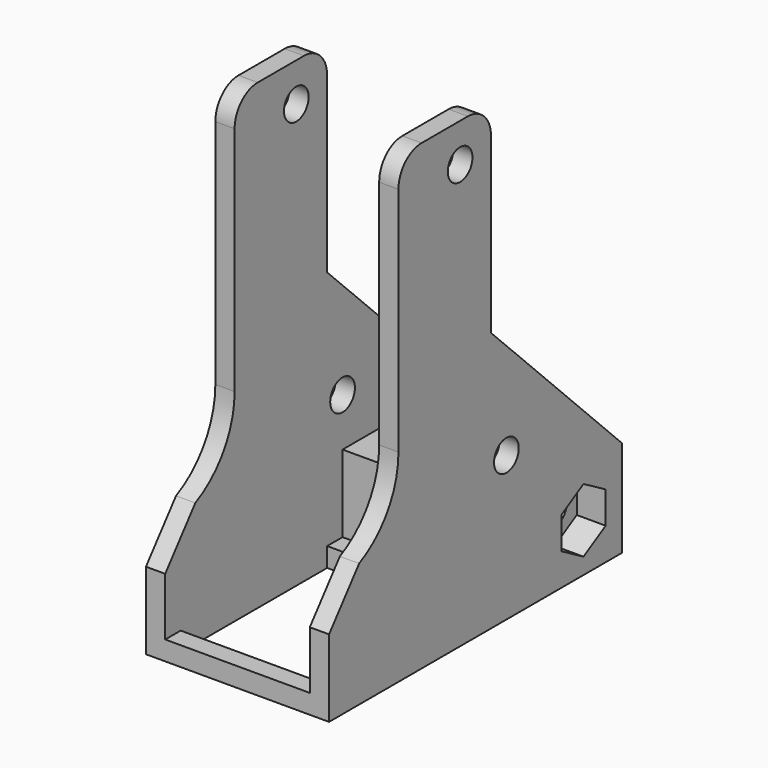
from build123d import *

# Parameters (mm, degrees)
SKETCH001_W          = 17.4
SKETCH001_H          = 38
PAD001_DEPTH         = 2
SKETCH002_R          = 1.6
PAD_DEPTH            = 2
SKETCH005_R          = 1.6
PAD002_DEPTH         = 2
PAD003_DEPTH         = 10
SKETCH006_W          = 4
SKETCH006_H          = 10
POCKET001_DEPTH      = 0.001
POCKET001_DEPTH_BACK = 48.001
SKETCH007_R          = 1.6
POCKET_DEPTH         = 9.501
POCKET_DEPTH_BACK    = 9.501
SKETCH008_R          = 4
POCKET002_DEPTH      = 3
POCKET003_DEPTH      = 3
SKETCH004_R          = 1.6
POCKET004_DEPTH      = 9.501
POCKET004_DEPTH_BACK = 9.501
CHAMFER_SIZE         = 13.99
CHAMFER001_SIZE      = 3
FILLET_R             = 8.99
CHAMFER002_SIZE      = 4
FILLET001_R          = 3


with BuildPart() as part:
    # Sketch001 → Pad001 (new body)
    with BuildSketch(Plane.XY):
        with Locations((0, -19)):
            Rectangle(SKETCH001_W, SKETCH001_H)
        Polygon((7.5, -17), (7.5, -36), (-7.5, -36), (-7.5, -17), (0, -17), (0, -15.5), (2, -15.5), (2, -17), align=None, mode=Mode.SUBTRACT)
    extrude(amount=PAD001_DEPTH)

    # Sketch002 (on DatumPlane) → Pad (join)
    with BuildSketch(Plane.YZ.offset(-9.5)):
        Polygon((0, 24), (0, 0), (-38, 0), (-38, 12), (-29, 12), (-29, 48), (-17, 48), (-17, 24), align=None)
        with Locations((-21, 44)):
            Circle(SKETCH002_R, mode=Mode.SUBTRACT)
    extrude(amount=PAD_DEPTH)

    # Sketch005 (on DatumPlane) → Pad002 (join)
    with BuildSketch(Plane.YZ.offset(9.5)):
        Polygon((0, 24), (0, 0), (-38, 0), (-38, 12), (-29, 12), (-29, 48), (-17, 48), (-17, 24), align=None)
        with Locations((-21, 44)):
            Circle(SKETCH005_R, mode=Mode.SUBTRACT)
    extrude(amount=-PAD002_DEPTH)

    # Sketch → Pad003 (join)
    with BuildSketch(Plane.XY):
        Polygon((-2, 0), (-8.7, 0), (-8.7, -15), (8.7, -15), (8.7, 0), (2, 0), (2, -10), (-2, -10), align=None)
    extrude(amount=PAD003_DEPTH)

    # Sketch006 → Pocket001 (cut, two sides)
    with BuildSketch(Plane.XY) as pocket001_sk:
        with Locations((0, -5)):
            Rectangle(SKETCH006_W, SKETCH006_H)
    extrude(amount=-POCKET001_DEPTH, mode=Mode.SUBTRACT)
    extrude(pocket001_sk.sketch, amount=POCKET001_DEPTH_BACK, mode=Mode.SUBTRACT)

    # Sketch007 → Pocket (cut, two sides)
    with BuildSketch(Plane.YZ) as pocket_sk:
        with Locations((-5, 5)):
            Circle(SKETCH007_R)
    extrude(amount=-POCKET_DEPTH, mode=Mode.SUBTRACT)
    extrude(pocket_sk.sketch, amount=POCKET_DEPTH_BACK, mode=Mode.SUBTRACT)

    # Sketch008 (on DatumPlane) → Pocket002 (cut)
    with BuildSketch(Plane.YZ.offset(-9.5)):
        with Locations((-5, 5)):
            Circle(SKETCH008_R)
    extrude(amount=POCKET002_DEPTH, mode=Mode.SUBTRACT)

    # Sketch009 (on DatumPlane) → Pocket003 (cut)
    with BuildSketch(Plane.YZ.offset(9.5)):
        Polygon((-2.125, 3.340118), (-2.125, 6.659882), (-5, 8.319764), (-7.875, 6.659882), (-7.875, 3.340118), (-5, 1.680236), align=None)
    extrude(amount=-POCKET003_DEPTH, mode=Mode.SUBTRACT)

    # Sketch004 → Pocket004 (cut, two sides)
    with BuildSketch(Plane.YZ) as pocket004_sk:
        with Locations((-15, 15)):
            Circle(SKETCH004_R)
    extrude(amount=-POCKET004_DEPTH, mode=Mode.SUBTRACT)
    extrude(pocket004_sk.sketch, amount=POCKET004_DEPTH_BACK, mode=Mode.SUBTRACT)

    # Chamfer
    chamfer_edges = [part.edges().sort_by_distance(p)[0] for p in [
        (-8.5, 0, 24),
        (8.5, 0, 24),
    ]]
    chamfer(chamfer_edges, length=CHAMFER_SIZE)

    # Chamfer001
    chamfer001_edges = [part.edges().sort_by_distance(p)[0] for p in [
        (8.5, -17, 24),
        (-8.5, -17, 24),
    ]]
    chamfer(chamfer001_edges, length=CHAMFER001_SIZE)

    # Fillet
    fillet_edges = [part.edges().sort_by_distance(p)[0] for p in [
        (-8.5, -29, 12),
        (8.5, -29, 12),
    ]]
    fillet(fillet_edges, radius=FILLET_R)

    # Chamfer002
    chamfer002_edges = [part.edges().sort_by_distance(p)[0] for p in [
        (-8.5, -38, 12),
        (8.5, -38, 12),
    ]]
    chamfer(chamfer002_edges, length=CHAMFER002_SIZE)

    # Fillet001
    fillet001_edges = [part.edges().sort_by_distance(p)[0] for p in [
        (-8.5, -29, 48),
        (8.5, -29, 48),
        (8.5, -17, 48),
        (-8.5, -17, 48),
    ]]
    fillet(fillet001_edges, radius=FILLET001_R)


solid = part.part
